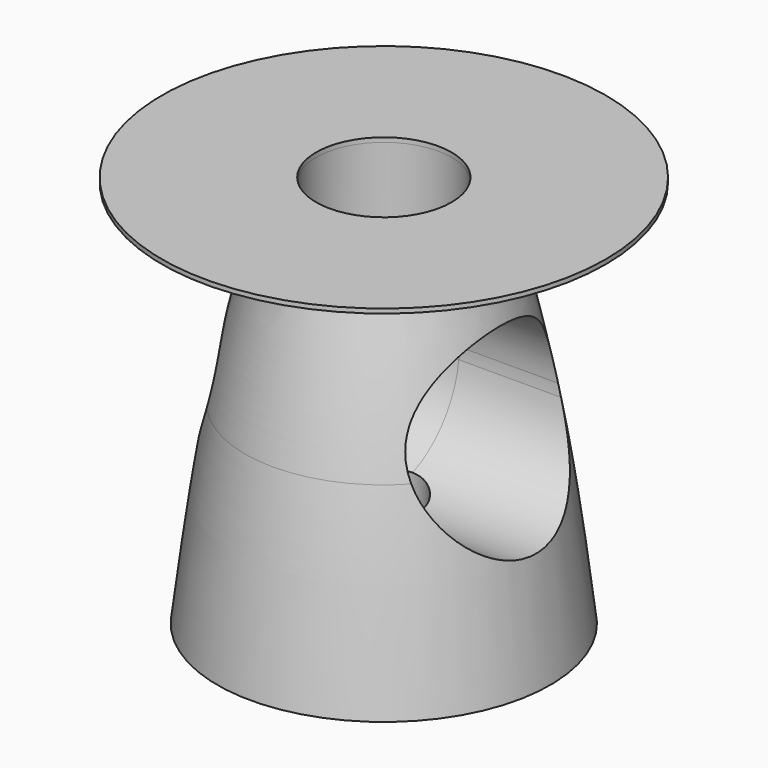
from build123d import *

# Parameters (mm, degrees)
F3_DEPTH = 15
F2_R     = 6.1
F4_DEPTH = 20
F5_R     = 3.25
F6_DEPTH = 20
F5_R_2   = 13.7
F7_DEPTH = 1.3
F2_R_2   = 20
F2_R_3   = 8.5
F8_DEPTH = 0.4


with BuildPart() as f1:
    # F0 (on Right) → F1 (revolve)
    with BuildSketch(Plane.YZ):
        with BuildLine():
            Line((0, 10), (0, 0))
            Line((0, 0), (15, 0))
            add(Edge.make_bspline(
                [(12.5, 17.5), (13.5772919142, 11.6888974623), (14.2886459571, 5.8444487312), (15, 0)],
                knots=[0.5019201889, 0.5019201889, 0.5019201889, 0.5019201889, 1, 1, 1, 1], degree=3))
            Line((12.5, 17.5), (8.4409715081, 17.5))
            ThreePointArc((8.4409715081, 17.5), (5.6457948953, 12.1458674864), (0, 10))
        make_face()
        with BuildLine():
            Line((8.4409715081, 17.5), (12.5, 17.5))
            add(Edge.make_bspline(
                [(8.5, 35), (9.9572008854, 29.1779541329), (11.4144017707, 23.3559082658), (12.5, 17.5)],
                knots=[0, 0, 0, 0, 0.5019201889, 0.5019201889, 0.5019201889, 0.5019201889], degree=3))
            Line((8.5, 35), (0, 35))
            Line((0, 35), (0, 27))
            ThreePointArc((0, 27), (6.0104076401, 24.5104076401), (8.5, 18.5))
            ThreePointArc((8.5, 18.5), (8.4852300446, 17.9991296668), (8.4409715081, 17.5))
        make_face()
    revolve(axis=Axis((0, 0, 17.5), (0, 0, -1)))

    # F0 (on Right) → F3 (cut, symmetric)
    with BuildSketch(Plane.YZ):
        with BuildLine():
            Line((0, 17.5), (0, 10))
            ThreePointArc((0, 10), (5.6457948953, 12.1458674864), (8.4409715081, 17.5))
            Line((8.4409715081, 17.5), (0, 17.5))
        make_face()
        with BuildLine():
            ThreePointArc((-8.4409715081, 17.5), (-5.6457948953, 12.1458674864), (0, 10))
            Line((0, 10), (0, 17.5))
            Line((0, 17.5), (-8.4409715081, 17.5))
        make_face()
        with BuildLine():
            ThreePointArc((0, 27), (-6.3541325136, 24.1457948953), (-8.4409715081, 17.5))
            Line((-8.4409715081, 17.5), (0, 17.5))
            Line((0, 17.5), (0, 27))
        make_face()
        with BuildLine():
            Line((0, 27), (0, 17.5))
            Line((0, 17.5), (8.4409715081, 17.5))
            ThreePointArc((8.4409715081, 17.5), (8.4852300446, 17.9991296668), (8.5, 18.5))
            ThreePointArc((8.5, 18.5), (6.0104076401, 24.5104076401), (0, 27))
        make_face()
    extrude(amount=F3_DEPTH, both=True, mode=Mode.SUBTRACT)

    # F2 (on face) → F4 (cut)
    with BuildSketch(Plane.XY.offset(35)):
        Circle(F2_R)
    extrude(amount=-F4_DEPTH, mode=Mode.SUBTRACT)

    # F5 (on face) → F6 (cut)
    with BuildSketch(Plane(origin=(0, 0, 0), x_dir=(1, 0, 0), z_dir=(0, 0, -1))):
        Circle(F5_R)
    extrude(amount=-F6_DEPTH, mode=Mode.SUBTRACT)

    # F5 (on face) → F7 (cut)
    with BuildSketch(Plane(origin=(0, 0, 0), x_dir=(1, 0, 0), z_dir=(0, 0, -1))):
        Circle(F5_R_2)
        Circle(F5_R, mode=Mode.SUBTRACT)
    extrude(amount=-F7_DEPTH, mode=Mode.SUBTRACT)

    # F2 (on face) → F8 (join)
    with BuildSketch(Plane.XY.offset(35)):
        Circle(F2_R_2)
        Circle(F2_R_3, mode=Mode.SUBTRACT)
        Circle(F2_R_3)
        Circle(F2_R, mode=Mode.SUBTRACT)
    extrude(amount=F8_DEPTH)


solid = f1.part
